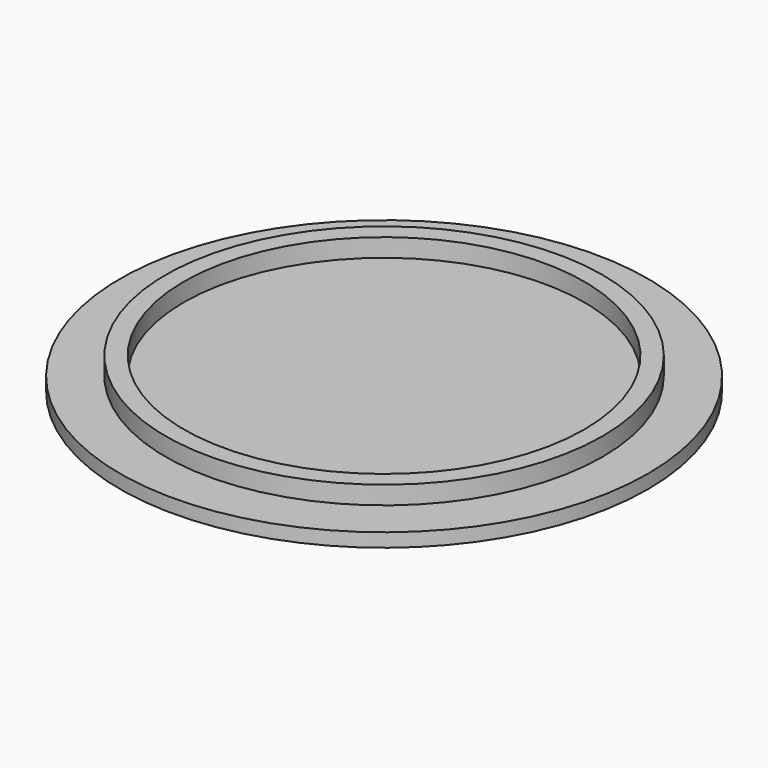
from build123d import *

# Parameters (mm, degrees)
SKETCH_R      = 29
PAD_DEPTH     = 1.5
SKETCH001_R   = 24
SKETCH001_R_2 = 22
PAD001_DEPTH  = 2


with BuildPart() as part:
    # Sketch → Pad (new body)
    with BuildSketch(Plane.XY):
        Circle(SKETCH_R)
    extrude(amount=PAD_DEPTH)

    # Sketch001 (on DatumPlane) → Pad001 (join)
    with BuildSketch(Plane.XY.offset(1.5)):
        Circle(SKETCH001_R)
        Circle(SKETCH001_R_2, mode=Mode.SUBTRACT)
    extrude(amount=PAD001_DEPTH)


solid = part.part
